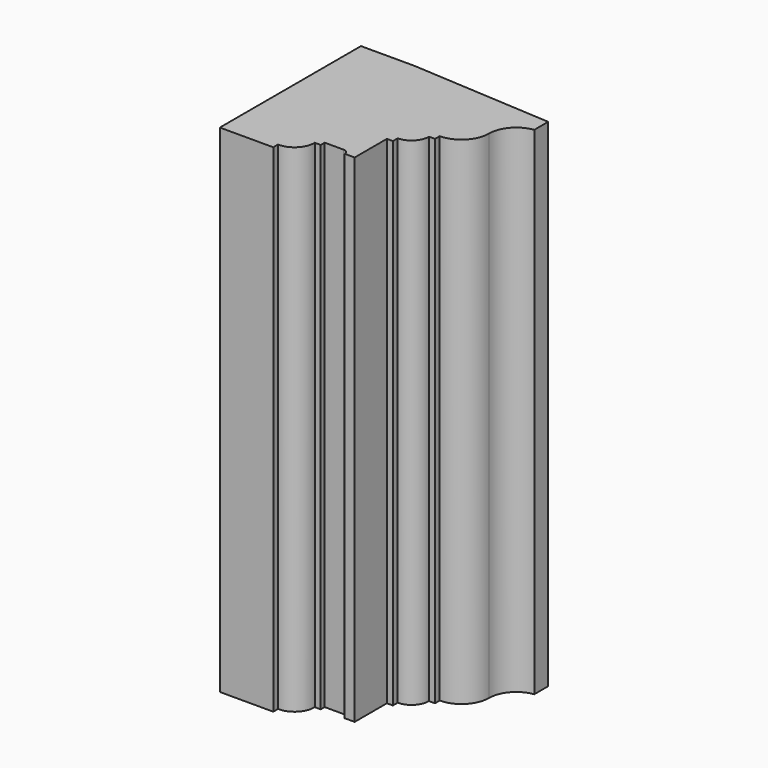
from build123d import *

# Parameters (mm, degrees)
F1_DEPTH = 1000


with BuildPart() as f1:
    # F0 (on Top) → F1 (new body)
    with BuildSketch(Plane.XY):
        with BuildLine():
            Line((0, 355), (0, 0))
            Line((0, 0), (107.5, 0))
            Line((107.5, 0), (107.5, 12))
            ThreePointArc((107.5, 12), (136.911107, 23.510225), (148.804216, 52.7686))
            Line((148.804216, 52.7686), (160.804216, 52.7686))
            Line((160.804216, 52.7686), (160.804216, 62.7686))
            Line((160.804216, 62.7686), (198.804216, 62.7686))
            ThreePointArc((198.804216, 62.7686), (206.045742, 59.934201), (209.066943, 52.7686))
            Line((209.066943, 52.7686), (229.066943, 52.771947))
            Line((229.066943, 52.771947), (229.066943, 133.853948))
            Line((229.066943, 133.853948), (241.066943, 133.853948))
            Line((241.066943, 133.853948), (241.066943, 146.052128))
            ThreePointArc((241.066943, 146.052128), (265.815681, 156.303391), (276.066943, 181.052128))
            Line((276.066943, 181.052128), (288.066943, 181.052128))
            Line((288.066943, 181.052128), (288.066943, 193.052128))
            ThreePointArc((288.066943, 193.052128), (326.957816, 209.161255), (343.066943, 248.052128))
            ThreePointArc((343.066943, 248.052128), (356.657186, 284.249256), (390.711745, 302.558101))
            Line((390.711745, 302.558101), (390.711745, 337.558101))
            Line((390.711745, 337.558101), (107.5, 355))
            Line((107.5, 355), (0, 355))
        make_face()
    extrude(amount=F1_DEPTH)


solid = f1.part
